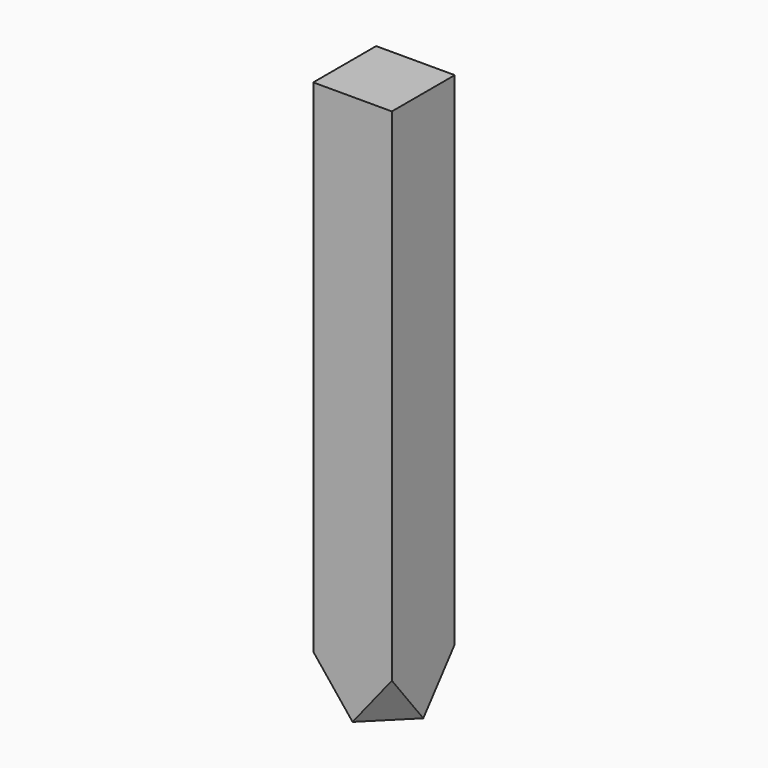
from build123d import *

# Parameters (mm, degrees)
F0_W      = 12.7
F0_H      = 12.7
F1_DEPTH  = 88.9
F15_DEPTH = 25.4
F16_DEPTH = 25.4
F17_DEPTH = 25.4
F18_DEPTH = 25.4


with BuildPart() as f1:
    # F0 (on Top) → F1 (new body)
    with BuildSketch(Plane.XY):
        Rectangle(F0_W, F0_H)
    extrude(amount=-F1_DEPTH)

    # F11 (on 3pt) → F15 (cut)
    with BuildSketch(Plane(origin=(-29.3548700028, 29.3548700028, -23.5027056937), x_dir=(-0.7882634225, -0.4803480231, 0.3845862106), z_dir=(-0.615337937, 0.615337937, -0.4926646391))):
        Polygon((-29.1842413909, -69.3975402572), (-29.1842413909, -59.2375402572), (-37.2399240707, -65.4287902572), align=None)
    extrude(amount=F15_DEPTH, mode=Mode.SUBTRACT)

    # F12 (on 3pt) → F16 (cut)
    with BuildSketch(Plane(origin=(-29.3548700028, -29.3548700028, -23.5027056937), x_dir=(0.7882634225, -0.4803480231, -0.3845862106), z_dir=(-0.615337937, -0.615337937, -0.4926646391))):
        Polygon((37.2399240707, -65.4287902572), (29.1842413909, -59.2375402572), (29.1842413909, -69.3975402572), align=None)
    extrude(amount=F16_DEPTH, mode=Mode.SUBTRACT)

    # F13 (on 3pt) → F17 (cut)
    with BuildSketch(Plane(origin=(29.3548700028, -29.3548700028, -23.5027056937), x_dir=(-0.7882634225, -0.4803480231, -0.3845862106), z_dir=(-0.615337937, 0.615337937, 0.4926646391))):
        Polygon((29.1842413909, -59.2375402572), (29.1842413909, -69.3975402572), (37.2399240707, -65.4287902572), align=None)
    extrude(amount=-F17_DEPTH, mode=Mode.SUBTRACT)

    # F14 (on 3pt) → F18 (cut)
    with BuildSketch(Plane(origin=(29.3548700028, 29.3548700028, -23.5027056937), x_dir=(0.7882634225, -0.4803480231, 0.3845862106), z_dir=(-0.615337937, -0.615337937, 0.4926646391))):
        Polygon((-29.1842413909, -69.3975402572), (-29.1842413909, -59.2375402572), (-37.2399240707, -65.4287902572), align=None)
    extrude(amount=-F18_DEPTH, mode=Mode.SUBTRACT)


solid = f1.part
